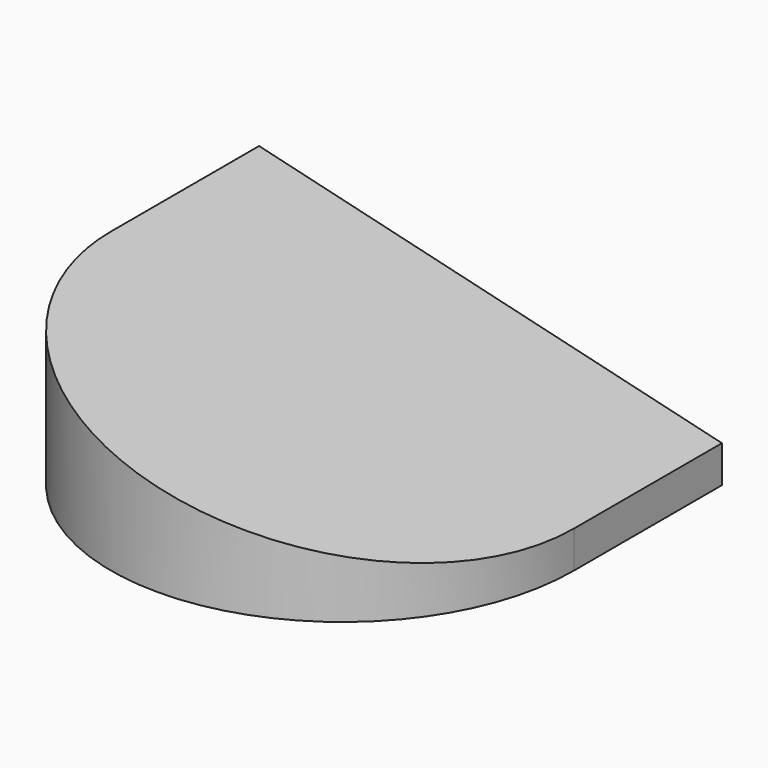
from build123d import *

# Parameters (mm, degrees)
F1_DEPTH = 25
F3_DEPTH = 30


with BuildPart() as f1:
    # F0 (on Top) → F1 (new body)
    with BuildSketch(Plane.XY):
        with BuildLine():
            Line((0, 10), (0, 0))
            ThreePointArc((0, 0), (12.5, -12.5), (25, 0))
            Line((25, 0), (25, 10))
            Line((25, 10), (0, 10))
        make_face()
    extrude(amount=F1_DEPTH)

    # F2 (on Front) → F3 (cut, symmetric)
    with BuildSketch(Plane.XZ):
        Polygon((-8.5895, 40.338462), (-8.5895, 10.06148), (30.771124, 0.61493), (30.771124, 30.891913), align=None)
    extrude(amount=F3_DEPTH, both=True, mode=Mode.SUBTRACT)


solid = f1.part
